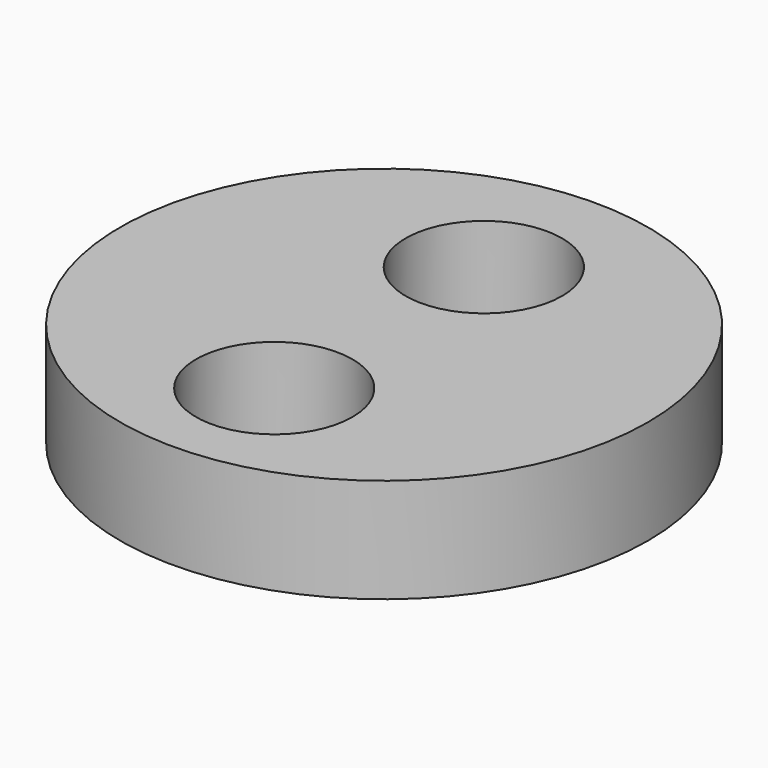
from build123d import *

# Parameters (mm, degrees)
F0_R     = 25.308413
F0_R_2   = 7.5
F1_DEPTH = 10
F2_T     = -1.5


with BuildPart() as f1:
    # F0 (on Top) → F1 (new body)
    with BuildSketch(Plane.XY):
        Circle(F0_R)
        with Locations((0, -13.165262)):
            Circle(F0_R_2, mode=Mode.SUBTRACT)
        with Locations((0, 11.95744)):
            Circle(F0_R_2, mode=Mode.SUBTRACT)
    extrude(amount=F1_DEPTH)

    # F2
    f2_openings = [f1.faces().sort_by_distance(p)[0] for p in [
        (0, 0.12867, 0),
    ]]
    offset(amount=F2_T, openings=f2_openings)


solid = f1.part
